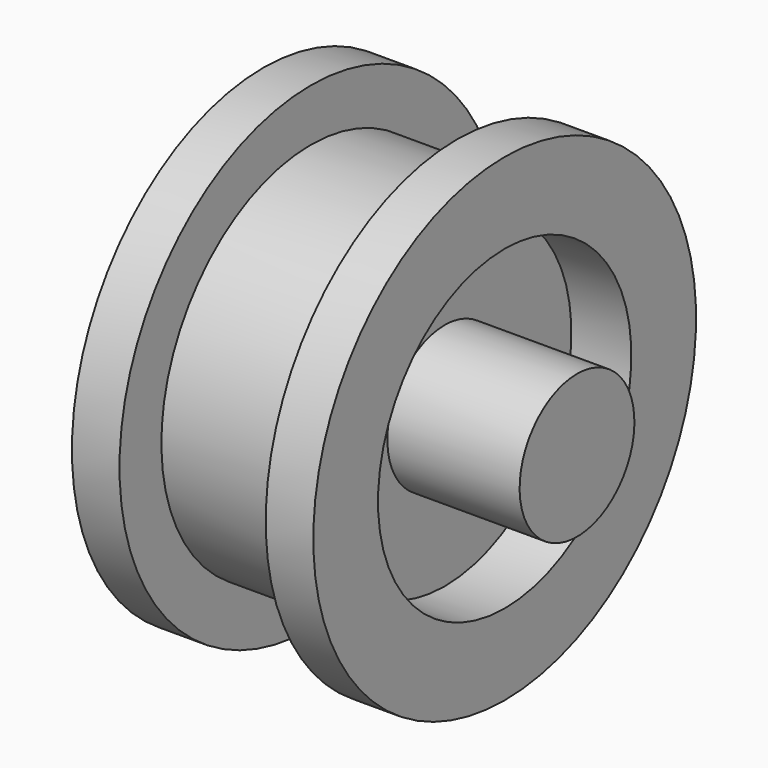
from build123d import *


with BuildPart() as f1:
    # F0 (on Front) → F1 (revolve)
    with BuildSketch(Plane.XZ):
        Polygon((-44.028658, 144.088522), (-72.687835, 144.088522), (-72.687835, 95.367923), (-36.577273, 95.367923), (-36.577273, 43.208219), (-116.249777, 43.208219), (-116.249777, 0), (0, 0), (116.249777, 0), (116.249777, 43.208219), (36.577273, 43.208219), (36.577273, 95.367923), (72.687835, 95.367923), (72.687835, 144.088522), (44.028658, 144.088522), (44.028658, 112.563424), (0, 112.563424), (-44.028658, 112.563424), align=None)
    revolve(axis=Axis((0.677384, 0, 0), (1, 0, 0)))


solid = f1.part
